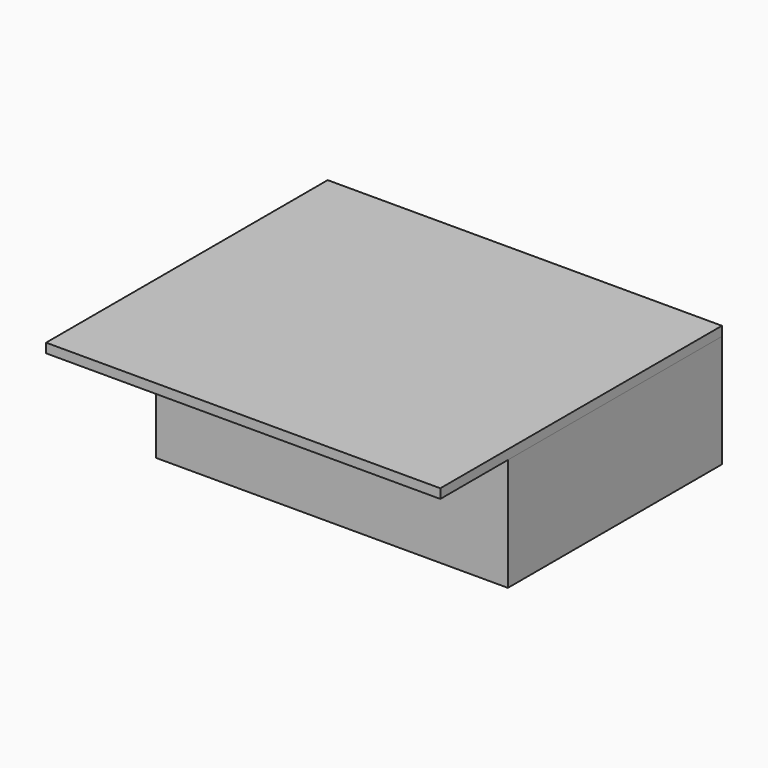
from build123d import *

# Parameters (mm, degrees)
F0_W     = 7620
F0_H     = 5791.2
F0_W_2   = 7315.2
F0_H_2   = 5537.2
F1_DEPTH = 2438.4
F2_W     = 762
F2_H     = 2032
F3_DEPTH = 101.6
F5_DEPTH = 2438.4
F6_W     = 2032
F6_H     = 1930.4
F7_DEPTH = 762
F8_W     = 8534.4
F8_H     = 7620
F9_DEPTH = 203.2


with BuildPart() as f1:
    # F0 (on Top) → F1 (new body)
    with BuildSketch(Plane.XY):
        with Locations((3810, 2895.6)):
            Rectangle(F0_W, F0_H)
        with Locations((3810, 2921)):
            Rectangle(F0_W_2, F0_H_2, mode=Mode.SUBTRACT)
    extrude(amount=F1_DEPTH)

    # F2 (on face) → F3 (cut, through all)
    with BuildSketch(Plane.XZ.offset(-5689.6)):
        with Locations((3479.8, 1016)):
            Rectangle(F2_W, F2_H)
    extrude(amount=-F3_DEPTH, mode=Mode.SUBTRACT)

    # F4 (on face) → F5 (join, through all)
    with BuildSketch(Plane.XY.offset(2438.4)):
        Polygon((2997.2, 4775.2), (2997.2, 5689.6), (2895.6, 5689.6), (2895.6, 4978.4), (2133.6, 4978.4), (2133.6, 4876.8), (2895.6, 4876.8), (2895.6, 4775.2), align=None)
        Polygon((2895.6, 2032), (152.4, 2032), (152.4, 1930.4), (2997.2, 1930.4), (2997.2, 4013.2), (2895.6, 4013.2), align=None)
        Polygon((152.4, 3962.4), (152.4, 3860.8), (1219.2, 3860.8), (1219.2, 5080), (1117.6, 5080), (1117.6, 3962.4), align=None)
        Polygon((4130.517575, 5689.6), (4013.2, 5689.6), (4350.629086, 5105.155679), (4438.617267, 5155.955679), align=None)
        Polygon((5098.387566, 3810), (7467.6, 3810), (7467.6, 3911.6), (5157.046353, 3911.6), (4819.617267, 4496.044321), (4731.629086, 4445.244321), align=None)
    extrude(amount=-F5_DEPTH)


with BuildPart() as f7:
    # F6 (on Top) → F7 (new body)
    with BuildSketch(Plane.XY):
        with Locations((6190.193924, 1555.858083)):
            Rectangle(F6_W, F6_H)
    extrude(amount=F7_DEPTH)


with BuildPart() as f9:
    # F8 (on face) → F9 (new body)
    with BuildSketch(Plane.XY.offset(2438.4)):
        with Locations((3352.8, 1981.2)):
            Rectangle(F8_W, F8_H)
    extrude(amount=F9_DEPTH)


solid = Compound([f1.part, f7.part, f9.part])
